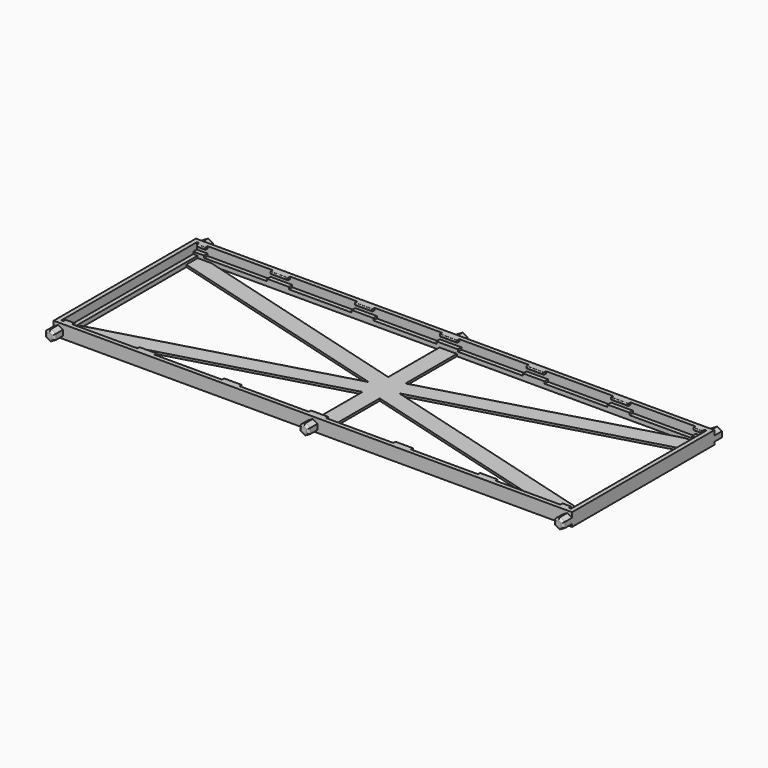
from build123d import *

# Parameters (mm, degrees)
SKETCH_W      = 239
SKETCH_H      = 82
SKETCH_W_2    = 235
SKETCH_H_2    = 78
PAD_DEPTH     = 4
SKETCH001_W   = 5
SKETCH001_H   = 1
PAD001_DEPTH  = 2
SKETCH002_W   = 5
SKETCH002_H   = 1
PAD002_DEPTH  = 2
SKETCH003_W   = 5
SKETCH003_H   = 1
PAD003_DEPTH  = 2
SKETCH004_W   = 5
SKETCH004_H   = 1
PAD004_DEPTH  = 2
SKETCH005_W   = 4
SKETCH005_H   = 1
PAD005_DEPTH  = 1.5
SKETCH006_W   = 4
SKETCH006_H   = 1
PAD006_DEPTH  = 1.5
SKETCH007_W   = 4
SKETCH007_H   = 1
PAD007_DEPTH  = 1.5
SKETCH008_W   = 4
SKETCH008_H   = 1
PAD008_DEPTH  = 1.5
FILLET_R      = 0.4
FILLET001_R   = 0.4
FILLET002_R   = 0.4
FILLET003_R   = 0.4
SKETCH009_W   = 10
SKETCH009_H   = 1
PAD009_DEPTH  = 2
SKETCH010_W   = 10
SKETCH010_H   = 1
PAD010_DEPTH  = 2
SKETCH011_W   = 10
SKETCH011_H   = 1
PAD011_DEPTH  = 2
SKETCH012_W   = 10
SKETCH012_H   = 1
PAD012_DEPTH  = 2
SKETCH013_W   = 10
SKETCH013_H   = 1
PAD013_DEPTH  = 2
SKETCH014_W   = 8
SKETCH014_H   = 1
PAD014_DEPTH  = 1.5
SKETCH015_W   = 8
SKETCH015_H   = 1
PAD015_DEPTH  = 1.5
SKETCH016_W   = 8
SKETCH016_H   = 1
PAD016_DEPTH  = 1.5
SKETCH017_W   = 8
SKETCH017_H   = 1
PAD017_DEPTH  = 1.5
SKETCH018_W   = 8
SKETCH018_H   = 1
PAD018_DEPTH  = 1.5
FILLET004_R   = 0.4
FILLET005_R   = 0.4
FILLET006_R   = 0.4
FILLET007_R   = 0.4
FILLET008_R   = 0.4
SKETCH019_W   = 10
SKETCH019_H   = 1
PAD019_DEPTH  = 2
SKETCH020_W   = 10
SKETCH020_H   = 1
PAD020_DEPTH  = 2
SKETCH021_W   = 10
SKETCH021_H   = 1
PAD021_DEPTH  = 2
SKETCH022_W   = 10
SKETCH022_H   = 1
PAD022_DEPTH  = 2
SKETCH023_W   = 10
SKETCH023_H   = 1
PAD023_DEPTH  = 2
SKETCH024_W   = 8
SKETCH024_H   = 1
PAD024_DEPTH  = 1.5
SKETCH025_W   = 8
SKETCH025_H   = 1
PAD025_DEPTH  = 1.5
SKETCH026_W   = 8
SKETCH026_H   = 1
PAD026_DEPTH  = 1.5
SKETCH027_W   = 8
SKETCH027_H   = 1
PAD027_DEPTH  = 1.5
SKETCH028_W   = 8
SKETCH028_H   = 1
PAD028_DEPTH  = 1.5
FILLET009_R   = 0.4
FILLET010_R   = 0.4
FILLET011_R   = 0.4
FILLET012_R   = 0.4
FILLET013_R   = 0.4
SKETCH029_W   = 239
SKETCH029_H   = 82
SKETCH029_W_2 = 231
SKETCH029_H_2 = 74
PAD029_DEPTH  = 1
SKETCH030_W   = 239
SKETCH030_H   = 82
PAD030_DEPTH  = 1
PAD031_DEPTH  = 5
FILLET014_R   = 1
PAD032_DEPTH  = 5
FILLET015_R   = 1
PAD033_DEPTH  = 5
FILLET016_R   = 1
PAD034_DEPTH  = 5
FILLET017_R   = 1
PAD035_DEPTH  = 5
FILLET018_R   = 1
PAD036_DEPTH  = 5
FILLET019_R   = 1


with BuildPart() as part:
    # Sketch → Pad (new body)
    with BuildSketch(Plane.XY):
        with Locations((117.5, 39)):
            Rectangle(SKETCH_W, SKETCH_H)
        with Locations((117.5, 39)):
            Rectangle(SKETCH_W_2, SKETCH_H_2, mode=Mode.SUBTRACT)
    extrude(amount=PAD_DEPTH)

    # Sketch001 (on Face8 of Pad) → Pad001 (join)
    with BuildSketch(Plane.XZ.offset(-78)):
        with Locations((2.5, 0.5)):
            Rectangle(SKETCH001_W, SKETCH001_H)
    extrude(amount=PAD001_DEPTH)

    # Sketch002 (on Face11 of Pad001) → Pad002 (join)
    with BuildSketch(Plane.XZ.offset(-78)):
        with Locations((232.5, 0.5)):
            Rectangle(SKETCH002_W, SKETCH002_H)
    extrude(amount=PAD002_DEPTH)

    # Sketch003 (on Face9 of Pad002) → Pad003 (join)
    with BuildSketch(Plane(origin=(0, 0, 0), x_dir=(-1, 0, 0), z_dir=(0, 1, 0))):
        with Locations((-232.5, 0.5)):
            Rectangle(SKETCH003_W, SKETCH003_H)
    extrude(amount=PAD003_DEPTH)

    # Sketch004 (on Face10 of Pad003) → Pad004 (join)
    with BuildSketch(Plane(origin=(0, 0, 0), x_dir=(-1, 0, 0), z_dir=(0, 1, 0))):
        with Locations((-2.5, 0.5)):
            Rectangle(SKETCH004_W, SKETCH004_H)
    extrude(amount=PAD004_DEPTH)

    # Sketch005 (on Face14 of Pad004) → Pad005 (join)
    with BuildSketch(Plane.XZ.offset(-78)):
        with Locations((3, 3.5)):
            Rectangle(SKETCH005_W, SKETCH005_H)
    extrude(amount=PAD005_DEPTH)

    # Sketch006 (on Face14 of Pad005) → Pad006 (join)
    with BuildSketch(Plane.XZ.offset(-78)):
        with Locations((232, 3.5)):
            Rectangle(SKETCH006_W, SKETCH006_H)
    extrude(amount=PAD006_DEPTH)

    # Sketch007 (on Face11 of Pad006) → Pad007 (join)
    with BuildSketch(Plane(origin=(0, 0, 0), x_dir=(-1, 0, 0), z_dir=(0, 1, 0))):
        with Locations((-232, 3.5)):
            Rectangle(SKETCH007_W, SKETCH007_H)
    extrude(amount=PAD007_DEPTH)

    # Sketch008 (on Face11 of Pad007) → Pad008 (join)
    with BuildSketch(Plane(origin=(0, 0, 0), x_dir=(-1, 0, 0), z_dir=(0, 1, 0))):
        with Locations((-3, 3.5)):
            Rectangle(SKETCH008_W, SKETCH008_H)
    extrude(amount=PAD008_DEPTH)

    # Fillet
    fillet_edges = [part.edges().sort_by_distance(p)[0] for p in [
        (3, 1.5, 4),
        (1, 1.5, 3.5),
        (3, 1.5, 3),
        (5, 1.5, 3.5),
    ]]
    fillet(fillet_edges, radius=FILLET_R)

    # Fillet001
    fillet001_edges = [part.edges().sort_by_distance(p)[0] for p in [
        (232, 1.5, 4),
        (230, 1.5, 3.5),
        (232, 1.5, 3),
        (234, 1.5, 3.5),
    ]]
    fillet(fillet001_edges, radius=FILLET001_R)

    # Fillet002
    fillet002_edges = [part.edges().sort_by_distance(p)[0] for p in [
        (3, 76.5, 4),
        (5, 76.5, 3.5),
        (3, 76.5, 3),
        (1, 76.5, 3.5),
    ]]
    fillet(fillet002_edges, radius=FILLET002_R)

    # Fillet003
    fillet003_edges = [part.edges().sort_by_distance(p)[0] for p in [
        (232, 76.5, 4),
        (234, 76.5, 3.5),
        (232, 76.5, 3),
        (230, 76.5, 3.5),
    ]]
    fillet(fillet003_edges, radius=FILLET003_R)

    # Sketch009 (on Face16 of Fillet003) → Pad009 (join)
    with BuildSketch(Plane(origin=(0, 0, 0), x_dir=(-1, 0, 0), z_dir=(0, 1, 0))):
        with Locations((-196, 0.5)):
            Rectangle(SKETCH009_W, SKETCH009_H)
    extrude(amount=PAD009_DEPTH)

    # Sketch010 (on Face16 of Pad009) → Pad010 (join)
    with BuildSketch(Plane(origin=(0, 0, 0), x_dir=(-1, 0, 0), z_dir=(0, 1, 0))):
        with Locations((-157, 0.5)):
            Rectangle(SKETCH010_W, SKETCH010_H)
    extrude(amount=PAD010_DEPTH)

    # Sketch011 (on Face16 of Pad010) → Pad011 (join)
    with BuildSketch(Plane(origin=(0, 0, 0), x_dir=(-1, 0, 0), z_dir=(0, 1, 0))):
        with Locations((-118, 0.5)):
            Rectangle(SKETCH011_W, SKETCH011_H)
    extrude(amount=PAD011_DEPTH)

    # Sketch012 (on Face16 of Pad011) → Pad012 (join)
    with BuildSketch(Plane(origin=(0, 0, 0), x_dir=(-1, 0, 0), z_dir=(0, 1, 0))):
        with Locations((-39, 0.5)):
            Rectangle(SKETCH012_W, SKETCH012_H)
    extrude(amount=PAD012_DEPTH)

    # Sketch013 (on Face16 of Pad012) → Pad013 (join)
    with BuildSketch(Plane(origin=(0, 0, 0), x_dir=(-1, 0, 0), z_dir=(0, 1, 0))):
        with Locations((-78, 0.5)):
            Rectangle(SKETCH013_W, SKETCH013_H)
    extrude(amount=PAD013_DEPTH)

    # Sketch014 (on Face16 of Pad013) → Pad014 (join)
    with BuildSketch(Plane(origin=(0, 0, 0), x_dir=(-1, 0, 0), z_dir=(0, 1, 0))):
        with Locations((-39, 3.5)):
            Rectangle(SKETCH014_W, SKETCH014_H)
    extrude(amount=PAD014_DEPTH)

    # Sketch015 (on Face16 of Pad014) → Pad015 (join)
    with BuildSketch(Plane(origin=(0, 0, 0), x_dir=(-1, 0, 0), z_dir=(0, 1, 0))):
        with Locations((-78, 3.5)):
            Rectangle(SKETCH015_W, SKETCH015_H)
    extrude(amount=PAD015_DEPTH)

    # Sketch016 (on Face16 of Pad015) → Pad016 (join)
    with BuildSketch(Plane(origin=(0, 0, 0), x_dir=(-1, 0, 0), z_dir=(0, 1, 0))):
        with Locations((-118, 3.5)):
            Rectangle(SKETCH016_W, SKETCH016_H)
    extrude(amount=PAD016_DEPTH)

    # Sketch017 (on Face16 of Pad016) → Pad017 (join)
    with BuildSketch(Plane(origin=(0, 0, 0), x_dir=(-1, 0, 0), z_dir=(0, 1, 0))):
        with Locations((-157, 3.5)):
            Rectangle(SKETCH017_W, SKETCH017_H)
    extrude(amount=PAD017_DEPTH)

    # Sketch018 (on Face16 of Pad017) → Pad018 (join)
    with BuildSketch(Plane(origin=(0, 0, 0), x_dir=(-1, 0, 0), z_dir=(0, 1, 0))):
        with Locations((-196, 3.5)):
            Rectangle(SKETCH018_W, SKETCH018_H)
    extrude(amount=PAD018_DEPTH)

    # Fillet004
    fillet004_edges = [part.edges().sort_by_distance(p)[0] for p in [
        (196, 1.5, 4),
        (192, 1.5, 3.5),
        (196, 1.5, 3),
        (200, 1.5, 3.5),
    ]]
    fillet(fillet004_edges, radius=FILLET004_R)

    # Fillet005
    fillet005_edges = [part.edges().sort_by_distance(p)[0] for p in [
        (157, 1.5, 4),
        (153, 1.5, 3.5),
        (157, 1.5, 3),
        (161, 1.5, 3.5),
    ]]
    fillet(fillet005_edges, radius=FILLET005_R)

    # Fillet006
    fillet006_edges = [part.edges().sort_by_distance(p)[0] for p in [
        (118, 1.5, 4),
        (114, 1.5, 3.5),
        (118, 1.5, 3),
        (122, 1.5, 3.5),
    ]]
    fillet(fillet006_edges, radius=FILLET006_R)

    # Fillet007
    fillet007_edges = [part.edges().sort_by_distance(p)[0] for p in [
        (78, 1.5, 4),
        (74, 1.5, 3.5),
        (78, 1.5, 3),
        (82, 1.5, 3.5),
    ]]
    fillet(fillet007_edges, radius=FILLET007_R)

    # Fillet008
    fillet008_edges = [part.edges().sort_by_distance(p)[0] for p in [
        (39, 1.5, 4),
        (35, 1.5, 3.5),
        (39, 1.5, 3),
        (43, 1.5, 3.5),
    ]]
    fillet(fillet008_edges, radius=FILLET008_R)

    # Sketch019 (on Face23 of Fillet008) → Pad019 (join)
    with BuildSketch(Plane.XZ.offset(-78)):
        with Locations((39, 0.5)):
            Rectangle(SKETCH019_W, SKETCH019_H)
    extrude(amount=PAD019_DEPTH)

    # Sketch020 (on Face23 of Pad019) → Pad020 (join)
    with BuildSketch(Plane.XZ.offset(-78)):
        with Locations((78, 0.5)):
            Rectangle(SKETCH020_W, SKETCH020_H)
    extrude(amount=PAD020_DEPTH)

    # Sketch021 (on Face23 of Pad020) → Pad021 (join)
    with BuildSketch(Plane.XZ.offset(-78)):
        with Locations((117, 0.5)):
            Rectangle(SKETCH021_W, SKETCH021_H)
    extrude(amount=PAD021_DEPTH)

    # Sketch022 (on Face23 of Pad021) → Pad022 (join)
    with BuildSketch(Plane.XZ.offset(-78)):
        with Locations((196, 0.5)):
            Rectangle(SKETCH022_W, SKETCH022_H)
    extrude(amount=PAD022_DEPTH)

    # Sketch023 (on Face23 of Pad022) → Pad023 (join)
    with BuildSketch(Plane.XZ.offset(-78)):
        with Locations((157, 0.5)):
            Rectangle(SKETCH023_W, SKETCH023_H)
    extrude(amount=PAD023_DEPTH)

    # Sketch024 (on Face23 of Pad023) → Pad024 (join)
    with BuildSketch(Plane.XZ.offset(-78)):
        with Locations((39, 3.5)):
            Rectangle(SKETCH024_W, SKETCH024_H)
    extrude(amount=PAD024_DEPTH)

    # Sketch025 (on Face23 of Pad024) → Pad025 (join)
    with BuildSketch(Plane.XZ.offset(-78)):
        with Locations((78, 3.5)):
            Rectangle(SKETCH025_W, SKETCH025_H)
    extrude(amount=PAD025_DEPTH)

    # Sketch026 (on Face23 of Pad025) → Pad026 (join)
    with BuildSketch(Plane.XZ.offset(-78)):
        with Locations((117, 3.5)):
            Rectangle(SKETCH026_W, SKETCH026_H)
    extrude(amount=PAD026_DEPTH)

    # Sketch027 (on Face23 of Pad026) → Pad027 (join)
    with BuildSketch(Plane.XZ.offset(-78)):
        with Locations((157, 3.5)):
            Rectangle(SKETCH027_W, SKETCH027_H)
    extrude(amount=PAD027_DEPTH)

    # Sketch028 (on Face23 of Pad027) → Pad028 (join)
    with BuildSketch(Plane.XZ.offset(-78)):
        with Locations((196, 3.5)):
            Rectangle(SKETCH028_W, SKETCH028_H)
    extrude(amount=PAD028_DEPTH)

    # Fillet009
    fillet009_edges = [part.edges().sort_by_distance(p)[0] for p in [
        (196, 76.5, 4),
        (200, 76.5, 3.5),
        (196, 76.5, 3),
        (192, 76.5, 3.5),
    ]]
    fillet(fillet009_edges, radius=FILLET009_R)

    # Fillet010
    fillet010_edges = [part.edges().sort_by_distance(p)[0] for p in [
        (157, 76.5, 4),
        (161, 76.5, 3.5),
        (157, 76.5, 3),
        (153, 76.5, 3.5),
    ]]
    fillet(fillet010_edges, radius=FILLET010_R)

    # Fillet011
    fillet011_edges = [part.edges().sort_by_distance(p)[0] for p in [
        (117, 76.5, 4),
        (121, 76.5, 3.5),
        (117, 76.5, 3),
        (113, 76.5, 3.5),
    ]]
    fillet(fillet011_edges, radius=FILLET011_R)

    # Fillet012
    fillet012_edges = [part.edges().sort_by_distance(p)[0] for p in [
        (78, 76.5, 4),
        (82, 76.5, 3.5),
        (78, 76.5, 3),
        (74, 76.5, 3.5),
    ]]
    fillet(fillet012_edges, radius=FILLET012_R)

    # Fillet013
    fillet013_edges = [part.edges().sort_by_distance(p)[0] for p in [
        (39, 76.5, 4),
        (43, 76.5, 3.5),
        (39, 76.5, 3),
        (35, 76.5, 3.5),
    ]]
    fillet(fillet013_edges, radius=FILLET013_R)

    # Sketch029 (on Face32 of Fillet013) → Pad029 (join)
    with BuildSketch(Plane(origin=(0, 0, 0), x_dir=(1, 0, 0), z_dir=(0, 0, -1))):
        with Locations((117.5, -39)):
            Rectangle(SKETCH029_W, SKETCH029_H)
        with Locations((117.5, -39)):
            Rectangle(SKETCH029_W_2, SKETCH029_H_2, mode=Mode.SUBTRACT)
    extrude(amount=PAD029_DEPTH)

    # Sketch030 (on Face168 of Pad029) → Pad030 (join)
    with BuildSketch(Plane(origin=(0, 0, -1), x_dir=(1, 0, 0), z_dir=(0, 0, -1))):
        with Locations((117.5, -39)):
            Rectangle(SKETCH030_W, SKETCH030_H)
        Polygon((8.328111, -2), (113.5, -2), (113.5, -31.552557), align=None, mode=Mode.SUBTRACT)
        Polygon((8.328111, -76), (113.5, -46.447443), (113.5, -76), align=None, mode=Mode.SUBTRACT)
        Polygon((2, -8.531674), (110.430935, -39), (2, -69.468326), align=None, mode=Mode.SUBTRACT)
        Polygon((121.5, -2), (121.5, -31.552557), (226.671889, -2), align=None, mode=Mode.SUBTRACT)
        Polygon((121.5, -76), (121.5, -46.447443), (226.671889, -76), align=None, mode=Mode.SUBTRACT)
        Polygon((124.569065, -39), (233, -8.531674), (233, -69.468326), align=None, mode=Mode.SUBTRACT)
    extrude(amount=PAD030_DEPTH)

    # Sketch031 (on Face170 of Pad030) → Pad031 (join)
    with BuildSketch(Plane.XZ.offset(2)):
        Polygon((119.665064, -0.75), (119.665064, 1.75), (117.5, 3), (115.334936, 1.75), (115.334936, -0.75), (117.5, -2), align=None)
    extrude(amount=PAD031_DEPTH)

    # Fillet014
    fillet014_edges = [part.edges().sort_by_distance(p)[0] for p in [
        (119.665064, -7, 0.5),
        (118.582532, -7, 2.375),
        (116.417468, -7, 2.375),
        (115.334936, -7, 0.5),
        (116.417468, -7, -1.375),
        (118.582532, -7, -1.375),
    ]]
    fillet(fillet014_edges, radius=FILLET014_R)

    # Sketch032 (on Face20 of Fillet014) → Pad032 (join)
    with BuildSketch(Plane.XZ.offset(2)):
        Polygon((2.330127, -0.75), (2.330127, 1.75), (0.165064, 3), (-2, 1.75), (-2, -0.75), (0.165064, -2), align=None)
    extrude(amount=PAD032_DEPTH)

    # Fillet015
    fillet015_edges = [part.edges().sort_by_distance(p)[0] for p in [
        (2.330127, -7, 0.5),
        (1.247595, -7, 2.375),
        (-0.917468, -7, 2.375),
        (-2, -7, 0.5),
        (-0.917468, -7, -1.375),
        (1.247595, -7, -1.375),
    ]]
    fillet(fillet015_edges, radius=FILLET015_R)

    # Sketch033 (on Face33 of Fillet015) → Pad033 (join)
    with BuildSketch(Plane.XZ.offset(2)):
        Polygon((237, -0.75), (237, 1.75), (234.834936, 3), (232.669873, 1.75), (232.669873, -0.75), (234.834936, -2), align=None)
    extrude(amount=PAD033_DEPTH)

    # Fillet016
    fillet016_edges = [part.edges().sort_by_distance(p)[0] for p in [
        (237, -7, 0.5),
        (235.917468, -7, 2.375),
        (233.752405, -7, 2.375),
        (232.669873, -7, 0.5),
        (233.752405, -7, -1.375),
        (235.917468, -7, -1.375),
    ]]
    fillet(fillet016_edges, radius=FILLET016_R)

    # Sketch034 (on Face66 of Fillet016) → Pad034 (join)
    with BuildSketch(Plane(origin=(0, 80, 0), x_dir=(-1, 0, 0), z_dir=(0, 1, 0))):
        Polygon((-115.334936, -0.75), (-115.334936, 1.75), (-117.5, 3), (-119.665064, 1.75), (-119.665064, -0.75), (-117.5, -2), align=None)
    extrude(amount=PAD034_DEPTH)

    # Fillet017
    fillet017_edges = [part.edges().sort_by_distance(p)[0] for p in [
        (115.334936, 85, 0.5),
        (116.417468, 85, 2.375),
        (118.582532, 85, 2.375),
        (119.665064, 85, 0.5),
        (118.582532, 85, -1.375),
        (116.417468, 85, -1.375),
    ]]
    fillet(fillet017_edges, radius=FILLET017_R)

    # Sketch035 (on Face17 of Fillet017) → Pad035 (join)
    with BuildSketch(Plane(origin=(0, 80, 0), x_dir=(-1, 0, 0), z_dir=(0, 1, 0))):
        Polygon((-232.669873, -0.75), (-232.669873, 1.75), (-234.834936, 3), (-237, 1.75), (-237, -0.75), (-234.834936, -2), align=None)
    extrude(amount=PAD035_DEPTH)

    # Fillet018
    fillet018_edges = [part.edges().sort_by_distance(p)[0] for p in [
        (232.669873, 85, 0.5),
        (233.752405, 85, 2.375),
        (235.917468, 85, 2.375),
        (237, 85, 0.5),
        (235.917468, 85, -1.375),
        (233.752405, 85, -1.375),
    ]]
    fillet(fillet018_edges, radius=FILLET018_R)

    # Sketch036 (on Face33 of Fillet018) → Pad036 (join)
    with BuildSketch(Plane(origin=(0, 80, 0), x_dir=(-1, 0, 0), z_dir=(0, 1, 0))):
        Polygon((2, -0.75), (2, 1.75), (-0.165064, 3), (-2.330127, 1.75), (-2.330127, -0.75), (-0.165064, -2), align=None)
    extrude(amount=PAD036_DEPTH)

    # Fillet019
    fillet019_edges = [part.edges().sort_by_distance(p)[0] for p in [
        (-2, 85, 0.5),
        (-0.917468, 85, 2.375),
        (1.247595, 85, 2.375),
        (2.330127, 85, 0.5),
        (1.247595, 85, -1.375),
        (-0.917468, 85, -1.375),
    ]]
    fillet(fillet019_edges, radius=FILLET019_R)


solid = part.part
